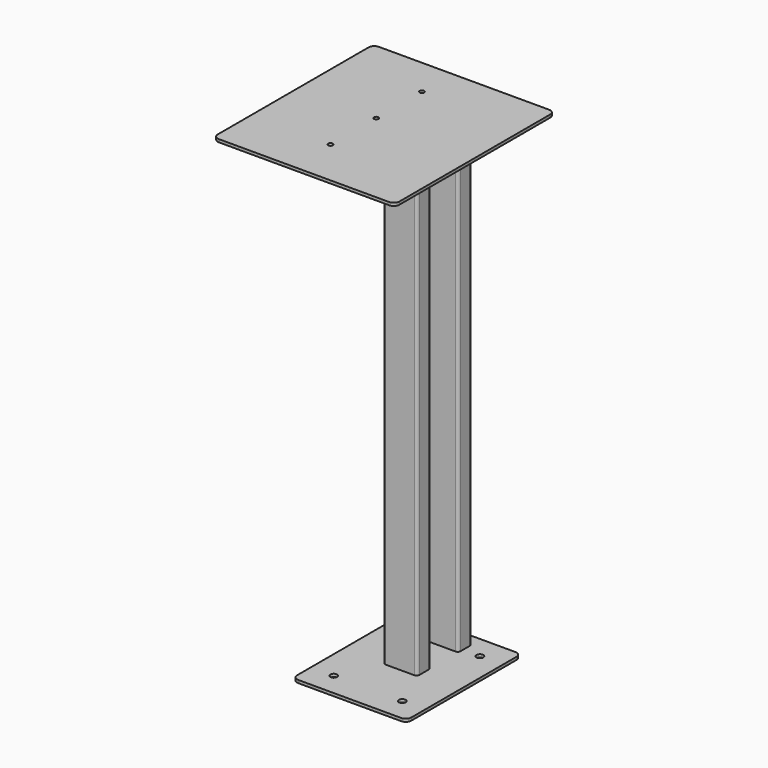
from build123d import *

# Parameters (mm, degrees)
F0_W     = 318
F0_H     = 350
F1_DEPTH = 5
F2_R     = 10
F4_D     = 8
F5_W     = 60
F5_H     = 30
F6_DEPTH = 850
F7_R     = 5
F8_R     = 6
F9_DEPTH = 5


with BuildPart() as f1:
    # F0 (on Top) → F1 (new body)
    with BuildSketch(Plane.XY):
        Rectangle(F0_W, F0_H)
    extrude(amount=F1_DEPTH)

    # F2
    f2_edges = [f1.edges().sort_by_distance(p)[0] for p in [
        (-159, -175, 2.5),
        (159, -175, 2.5),
        (159, 175, 2.5),
        (-159, 175, 2.5),
    ]]
    fillet(f2_edges, radius=F2_R)

    # F4 (through all)
    with Locations(Plane.XY.offset(5)):
        with Locations((-20, -92), (-20, 8), (-20, 108)):
            Hole(F4_D / 2)

    # F5 (on face) → F6 (join)
    with BuildSketch(Plane(origin=(0, 0, 0), x_dir=(1, 0, 0), z_dir=(0, 0, -1))):
        with Locations((0, -50)):
            Rectangle(F5_W, F5_H)
        with Locations((0, -140)):
            Rectangle(F5_W, F5_H)
    extrude(amount=F6_DEPTH)

    # F7
    f7_edges = [f1.edges().sort_by_distance(p)[0] for p in [
        (-30, 125, -425),
        (-30, 155, -425),
        (30, 125, -425),
        (-30, 65, -425),
        (-30, 35, -425),
        (30, 35, -425),
        (30, 65, -425),
        (30, 155, -425),
    ]]
    fillet(f7_edges, radius=F7_R)

    # F8 (on face) → F9 (join)
    with BuildSketch(Plane(origin=(0, 0, -850), x_dir=(1, 0, 0), z_dir=(0, 0, -1))):
        with BuildLine():
            ThreePointArc((100, 65), (97.071068, 72.071068), (90, 75))
            Line((90, 75), (-90, 75))
            ThreePointArc((-90, 75), (-97.071068, 72.071068), (-100, 65))
            Line((-100, 65), (-100, -165))
            ThreePointArc((-100, -165), (-97.071068, -172.071068), (-90, -175))
            Line((-90, -175), (90, -175))
            ThreePointArc((90, -175), (97.071068, -172.071068), (100, -165))
            Line((100, -165), (100, 65))
        make_face()
        with Locations((-60, -135)):
            Circle(F8_R, mode=Mode.SUBTRACT)
        with Locations((60, -135)):
            Circle(F8_R, mode=Mode.SUBTRACT)
        with Locations((-60, 35)):
            Circle(F8_R, mode=Mode.SUBTRACT)
        with BuildLine():
            Line((30, -40), (30, -60))
            ThreePointArc((30, -60), (28.535534, -63.535534), (25, -65))
            Line((25, -65), (-25, -65))
            ThreePointArc((-25, -65), (-28.535534, -63.535534), (-30, -60))
            Line((-30, -60), (-30, -40))
            ThreePointArc((-30, -40), (-28.535534, -36.464466), (-25, -35))
            Line((-25, -35), (25, -35))
            ThreePointArc((25, -35), (28.535534, -36.464466), (30, -40))
        make_face(mode=Mode.SUBTRACT)
        with Locations((60, 35)):
            Circle(F8_R, mode=Mode.SUBTRACT)
        with BuildLine():
            ThreePointArc((25, -65), (28.535534, -63.535534), (30, -60))
            Line((30, -60), (30, -40))
            ThreePointArc((30, -40), (28.535534, -36.464466), (25, -35))
            Line((25, -35), (-25, -35))
            ThreePointArc((-25, -35), (-28.535534, -36.464466), (-30, -40))
            Line((-30, -40), (-30, -60))
            ThreePointArc((-30, -60), (-28.535534, -63.535534), (-25, -65))
            Line((-25, -65), (25, -65))
        make_face()
    extrude(amount=F9_DEPTH)


solid = f1.part
